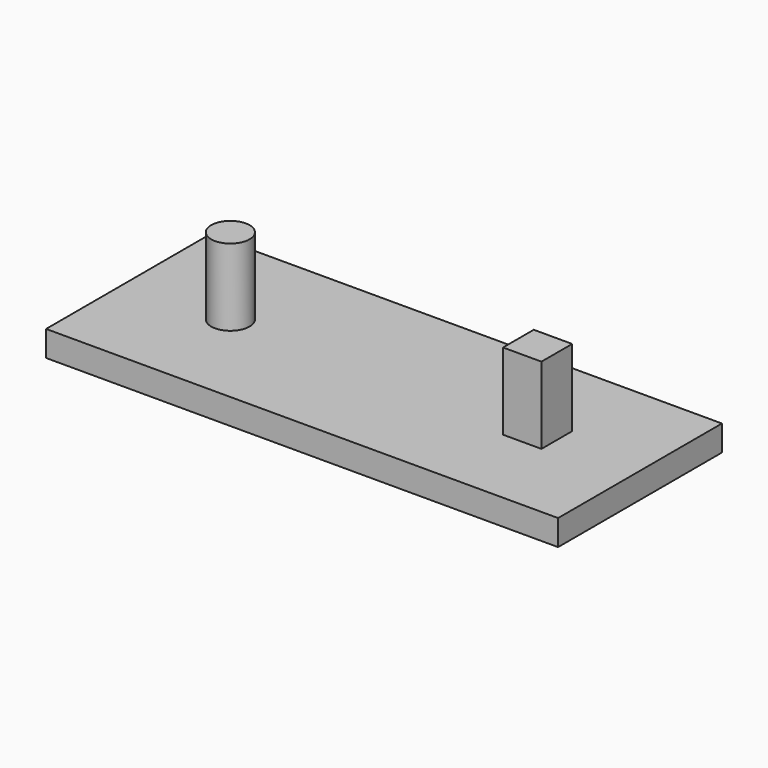
from build123d import *

# Parameters (mm, degrees)
F0_W     = 127
F0_H     = 50.8
F1_DEPTH = 6.35
F2_R     = 4.7625
F3_DEPTH = 19.05
F4_W     = 9.525
F4_H     = 9.525
F5_DEPTH = 19.05


with BuildPart() as f1:
    # F0 (on Top) → F1 (new body)
    with BuildSketch(Plane.XY):
        with Locations((-59.389017, -7.992546)):
            Rectangle(F0_W, F0_H)
    extrude(amount=F1_DEPTH)

    # F2 (on face) → F3 (join)
    with BuildSketch(Plane.XY.offset(6.35)):
        with Locations((-97.489017, -7.992546)):
            Circle(F2_R)
    extrude(amount=F3_DEPTH)

    # F4 (on face) → F5 (join)
    with BuildSketch(Plane.XY.offset(6.35)):
        with Locations((-21.289017, -7.992546)):
            Rectangle(F4_W, F4_H)
    extrude(amount=F5_DEPTH)


solid = f1.part
